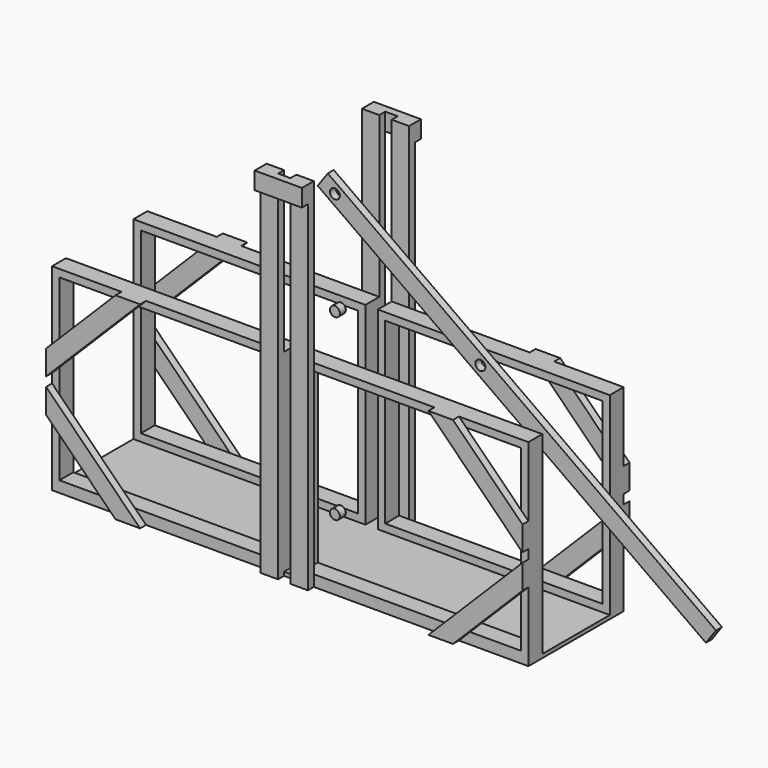
from build123d import *

# Parameters (mm, degrees)
F0_W      = 2438.4
F0_H      = 609.6
F1_DEPTH  = 19.05
F2_W      = 1187.45
F2_H      = 88.9
F3_DEPTH  = 38.1
F4_W      = 38.1
F4_H      = 88.9
F5_DEPTH  = 914.4
F6_W      = 1187.45
F6_H      = 88.9
F7_DEPTH  = 38.1
F8_W      = 88.9
F8_H      = 1828.8
F9_DEPTH  = 38.1
F10_W     = 88.9
F10_H     = 1828.8
F11_DEPTH = 38.1
F12_W     = 241.3
F12_H     = 88.9
F13_DEPTH = 38.1
F14_W     = 241.3
F14_H     = 88.9
F15_DEPTH = 38.1
F17_R     = 25.4
F18_DEPTH = 19.05


with BuildPart() as f1:
    # F0 (on Top) → F1 (new body)
    with BuildSketch(Plane.XY):
        with Locations((1219.2, -304.8)):
            Rectangle(F0_W, F0_H)
    extrude(amount=F1_DEPTH)

    # F2 (on face) → F3 (join)
    with BuildSketch(Plane.XY.offset(19.05)):
        with Locations((593.725, -44.45)):
            Rectangle(F2_W, F2_H)
        with Locations((1844.675, -44.45)):
            Rectangle(F2_W, F2_H)
        with Locations((593.725, -565.15)):
            Rectangle(F2_W, F2_H)
        with Locations((1844.675, -565.15)):
            Rectangle(F2_W, F2_H)
    extrude(amount=F3_DEPTH)

    # F4 (on face) → F5 (join)
    with BuildSketch(Plane.XY.offset(57.15)):
        with Locations((19.05, -44.45)):
            Rectangle(F4_W, F4_H)
        with Locations((1168.4, -44.45)):
            Rectangle(F4_W, F4_H)
        with Locations((1168.4, -565.15)):
            Rectangle(F4_W, F4_H)
        with Locations((19.05, -565.15)):
            Rectangle(F4_W, F4_H)
        with Locations((1270, -44.45)):
            Rectangle(F4_W, F4_H)
        with Locations((1270, -565.15)):
            Rectangle(F4_W, F4_H)
        with Locations((2419.35, -565.15)):
            Rectangle(F4_W, F4_H)
        with Locations((2419.35, -44.45)):
            Rectangle(F4_W, F4_H)
    extrude(amount=F5_DEPTH)

    # F6 (on face) → F7 (join)
    with BuildSketch(Plane.XY.offset(971.55)):
        with Locations((593.725, -44.45)):
            Rectangle(F6_W, F6_H)
        with Locations((1844.675, -44.45)):
            Rectangle(F6_W, F6_H)
        with Locations((1844.675, -565.15)):
            Rectangle(F6_W, F6_H)
        with Locations((593.725, -565.15)):
            Rectangle(F6_W, F6_H)
    extrude(amount=F7_DEPTH)

    # F8 (on face) → F9 (join)
    with BuildSketch(Plane.XZ.offset(609.6)):
        with Locations((1295.4, 914.4)):
            Rectangle(F8_W, F8_H)
        Polygon((2438.4, 654.05), (2082.8, 1009.65), (1957.076414305, 1009.65), (2438.4, 528.326414305), align=None)
        Polygon((2438.4, 355.6), (2438.4, 481.323585695), (1957.076414305, 0), (2082.8, 0), align=None)
        Polygon((0, 355.6), (355.6, 0), (481.323585695, 0), (0, 481.323585695), align=None)
        Polygon((481.323585695, 1009.65), (355.6, 1009.65), (0, 654.05), (0, 528.326414305), align=None)
        with Locations((1143, 914.4)):
            Rectangle(F8_W, F8_H)
    extrude(amount=F9_DEPTH)

    # F10 (on face) → F11 (join)
    with BuildSketch(Plane(origin=(0, 0, 0), x_dir=(-1, 0, 0), z_dir=(0, 1, 0))):
        with Locations((-1143, 914.4)):
            Rectangle(F10_W, F10_H)
        Polygon((0, 654.05), (-355.6, 1009.65), (-481.323585695, 1009.65), (0, 528.326414305), align=None)
        Polygon((0, 355.6), (0, 481.323585695), (-481.323585695, 0), (-355.6, 0), align=None)
        Polygon((-2438.4, 355.6), (-2082.8, 0), (-1957.076414305, 0), (-2438.4, 481.323585695), align=None)
        Polygon((-1957.076414305, 1009.65), (-2082.8, 1009.65), (-2438.4, 654.05), (-2438.4, 528.326414305), align=None)
        with Locations((-1295.4, 914.4)):
            Rectangle(F10_W, F10_H)
    extrude(amount=F11_DEPTH)

    # F12 (on face) → F13 (join)
    with BuildSketch(Plane(origin=(0, 38.1, 0), x_dir=(-1, 0, 0), z_dir=(0, 1, 0))):
        with Locations((-1219.2, 1784.35)):
            Rectangle(F12_W, F12_H)
    extrude(amount=F13_DEPTH)

    # F14 (on face) → F15 (join)
    with BuildSketch(Plane.XZ.offset(647.7)):
        with Locations((1219.2, 1784.35)):
            Rectangle(F14_W, F14_H)
    extrude(amount=F15_DEPTH)


with BuildPart() as f18:
    # F17 (on offset) → F18 (new body, symmetric)
    with BuildSketch(Plane.XZ.offset(304.8)):
        Polygon((3169.8556301289, 282.8668585002), (1182.8717964555, 1696.2634074986), (1131.3417139399, 1623.8212885626), (3118.3255476133, 210.4247395642), align=None)
        with Locations((1964.3189376275, 1085.85)):
            Circle(F17_R, mode=Mode.SUBTRACT)
        with Locations((1219.2, 1615.8737058744)):
            Circle(F17_R, mode=Mode.SUBTRACT)
    extrude(amount=F18_DEPTH, both=True)


with BuildPart() as f18b:
    # F17 (on offset) → F18, piece 2 (new body, symmetric)
    with BuildSketch(Plane.XZ.offset(304.8)):
        with Locations((1219.2, 1085.85)):
            Circle(F17_R)
    extrude(amount=F18_DEPTH, both=True)


with BuildPart() as f18c:
    # F17 (on offset) → F18, piece 3 (new body, symmetric)
    with BuildSketch(Plane.XZ.offset(304.8)):
        with Locations((1219.2, 171.45)):
            Circle(F17_R)
    extrude(amount=F18_DEPTH, both=True)


solid = Compound([f1.part, f18.part, f18b.part, f18c.part])
